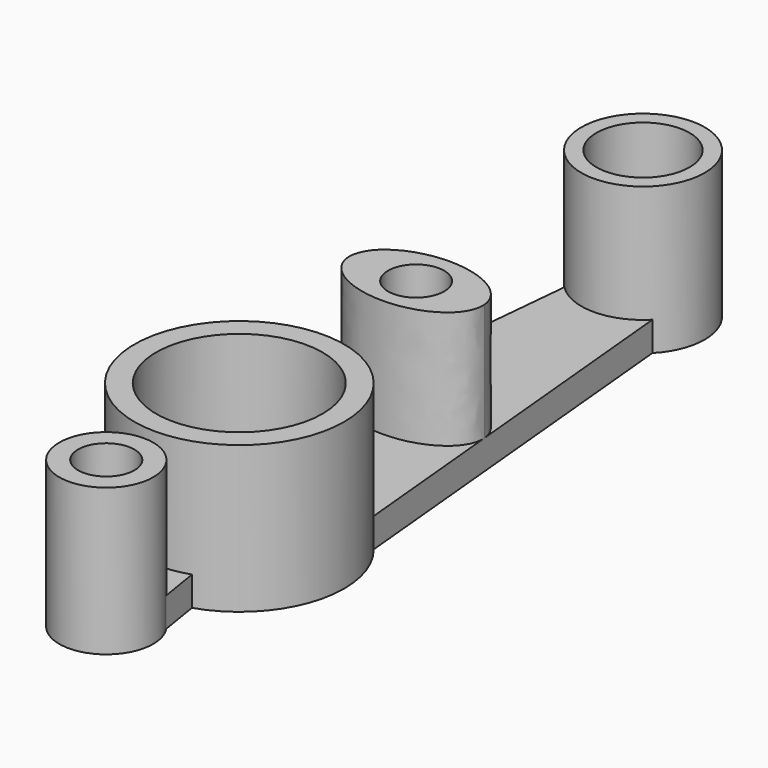
from build123d import *

# Parameters (mm, degrees)
F0_R     = 17.9979995513
F0_R_2   = 6.0747510363
F0_R_3   = 6.0949441069
F0_R_4   = 10.0773801314
F1_DEPTH = 6.35
F2_R     = 6.0949441069
F2_R_2   = 10.0773801314
F2_R_3   = 17.9979995513
F2_R_4   = 6.0747510363
F3_DEPTH = 25.4


with BuildPart() as f1:
    # F0 (on Top) → F1 (new body)
    with BuildSketch(Plane.XY):
        with BuildLine():
            ThreePointArc((7.0177937307, -21.5838061327), (18.3628187564, -13.3385532701), (22.6960374519, 0))
            ThreePointArc((22.6960374519, 0), (21.3913979495, 7.5840760668), (17.6274689928, 14.2962391183))
            ThreePointArc((17.6274689928, 14.2962391183), (0, 22.6960374519), (-17.6274689928, 14.2962391183))
            ThreePointArc((-17.6274689928, 14.2962391183), (-21.7644585386, -6.4357175621), (-7.0177937307, -21.5838061327))
            ThreePointArc((-7.0177937307, -21.5838061327), (0, -22.6960374519), (7.0177937307, -21.5838061327))
        make_face()
        Circle(F0_R, mode=Mode.SUBTRACT)
        with BuildLine():
            ThreePointArc((-17.6274689928, 14.2962391183), (0, 22.6960374519), (17.6274689928, 14.2962391183))
            Line((17.6274689928, 14.2962391183), (14.3902904912, 48.4228048638))
            add(Edge.make_bspline(
                [(14.4202992754, 47.7894358337), (14.4202992754, 48.1064502038), (14.3902904912, 48.4228048638)],
                knots=[0, 0, 0, 0.0645249095, 0.0645249095, 0.0645249095], degree=2, weights=[1, 0.9994796121, 1]))
            add(Edge.make_bspline(
                [(-14.3902904941, 48.4228048331), (-15.3506063284, 38.2990889748), (-0.4651535265, 37.9718487335), (14.4202992754, 37.6446084922), (14.4202992754, 47.7894358337)],
                knots=[3.0770677473, 3.0770677473, 3.0770677473, 4.6801265272, 4.6801265272, 6.2831853072, 6.2831853072, 6.2831853072], degree=2, weights=[1, 0.6956087777, 1, 0.6956087777, 1]))
            Line((-14.3902904941, 48.4228048331), (-17.6274689928, 14.2962391183))
        make_face()
        with BuildLine():
            Line((8.4153248479, -30.2734252867), (7.0177937307, -21.5838061327))
            ThreePointArc((7.0177937307, -21.5838061327), (0, -22.6960374519), (-7.0177937307, -21.5838061327))
            Line((-7.0177937307, -21.5838061327), (-8.4153248479, -30.2734252867))
            ThreePointArc((-8.4153248479, -30.2734252867), (0, -25.8088480655), (8.4153248479, -30.2734252867))
        make_face()
        with BuildLine():
            add(Edge.make_bspline(
                [(14.4202992754, 47.7894358337), (14.4202992754, 48.1064502038), (14.3902904912, 48.4228048638)],
                knots=[0, 0, 0, 0.0645249095, 0.0645249095, 0.0645249095], degree=2, weights=[1, 0.9994796121, 1]))
            add(Edge.make_bspline(
                [(14.3902904912, 48.4228048638), (13.5186086534, 57.6121345609), (-2.26e-08, 57.6121345465), (-13.5186086986, 57.612134532), (-14.3902904941, 48.4228048331)],
                knots=[0.0645249095, 0.0645249095, 0.0645249095, 1.5707963284, 1.5707963284, 3.0770677473, 3.0770677473, 3.0770677473], degree=2, weights=[1, 0.7295478541, 1, 0.7295478541, 1]))
            add(Edge.make_bspline(
                [(-14.3902904941, 48.4228048331), (-15.3506063284, 38.2990889748), (-0.4651535265, 37.9718487335), (14.4202992754, 37.6446084922), (14.4202992754, 47.7894358337)],
                knots=[3.0770677473, 3.0770677473, 3.0770677473, 4.6801265272, 4.6801265272, 6.2831853072, 6.2831853072, 6.2831853072], degree=2, weights=[1, 0.6956087777, 1, 0.6956087777, 1]))
        make_face()
        with Locations((0, 47.7894358337)):
            Circle(F0_R_2, mode=Mode.SUBTRACT)
        with BuildLine():
            add(Edge.make_bspline(
                [(14.3902904912, 48.4228048638), (13.5186086534, 57.6121345609), (-2.26e-08, 57.6121345465), (-13.5186086986, 57.612134532), (-14.3902904941, 48.4228048331)],
                knots=[0.0645249095, 0.0645249095, 0.0645249095, 1.5707963284, 1.5707963284, 3.0770677473, 3.0770677473, 3.0770677473], degree=2, weights=[1, 0.7295478541, 1, 0.7295478541, 1]))
            Line((14.3902904912, 48.4228048638), (9.5190301139, 99.7759778344))
            ThreePointArc((9.5190301139, 99.7759778344), (0, 95.7856198547), (-9.5190301139, 99.7759778344))
            Line((-9.5190301139, 99.7759778344), (-14.3902904941, 48.4228048331))
        make_face()
        with BuildLine():
            ThreePointArc((10.1633522686, -35.9722003341), (9.7165230463, -32.9917793527), (8.4153248479, -30.2734252867))
            ThreePointArc((8.4153248479, -30.2734252867), (0, -25.8088480655), (-8.4153248479, -30.2734252867))
            ThreePointArc((-8.4153248479, -30.2734252867), (-2.9804209813, -45.6887233804), (10.1633522686, -35.9722003341))
        make_face()
        with Locations((0, -35.9722003341)):
            Circle(F0_R_3, mode=Mode.SUBTRACT)
        with BuildLine():
            ThreePointArc((-9.5190301139, 99.7759778344), (0, 95.7856198547), (9.5190301139, 99.7759778344))
            ThreePointArc((9.5190301139, 99.7759778344), (12.3544882111, 104.0786259717), (13.3490393164, 109.1346591711))
            ThreePointArc((13.3490393164, 109.1346591711), (-5.0560331994, 121.4891473822), (-9.5190301139, 99.7759778344))
        make_face()
        with Locations((0, 109.1346591711)):
            Circle(F0_R_4, mode=Mode.SUBTRACT)
    extrude(amount=F1_DEPTH)

    # F2 (on face) → F3 (join)
    with BuildSketch(Plane.XY.offset(6.35)):
        with BuildLine():
            ThreePointArc((10.1633522686, -35.9722003341), (9.7165230463, -32.9917793527), (8.4153248479, -30.2734252867))
            ThreePointArc((8.4153248479, -30.2734252867), (0, -25.8088480655), (-8.4153248479, -30.2734252867))
            ThreePointArc((-8.4153248479, -30.2734252867), (-2.9804209813, -45.6887233804), (10.1633522686, -35.9722003341))
        make_face()
        with Locations((0, -35.9722003341)):
            Circle(F2_R, mode=Mode.SUBTRACT)
        with BuildLine():
            ThreePointArc((-9.5190301139, 99.7759778344), (0, 95.7856198547), (9.5190301139, 99.7759778344))
            ThreePointArc((9.5190301139, 99.7759778344), (12.3544882111, 104.0786259717), (13.3490393164, 109.1346591711))
            ThreePointArc((13.3490393164, 109.1346591711), (-5.0560331994, 121.4891473822), (-9.5190301139, 99.7759778344))
        make_face()
        with Locations((0, 109.1346591711)):
            Circle(F2_R_2, mode=Mode.SUBTRACT)
        with BuildLine():
            ThreePointArc((7.0177937307, -21.5838061327), (18.3628187564, -13.3385532701), (22.6960374519, 0))
            ThreePointArc((22.6960374519, 0), (21.3913979495, 7.5840760668), (17.6274689928, 14.2962391183))
            ThreePointArc((17.6274689928, 14.2962391183), (0, 22.6960374519), (-17.6274689928, 14.2962391183))
            ThreePointArc((-17.6274689928, 14.2962391183), (-21.7644585386, -6.4357175621), (-7.0177937307, -21.5838061327))
            ThreePointArc((-7.0177937307, -21.5838061327), (0, -22.6960374519), (7.0177937307, -21.5838061327))
        make_face()
        Circle(F2_R_3, mode=Mode.SUBTRACT)
        with BuildLine():
            add(Edge.make_bspline(
                [(14.4242746669, 47.7894358337), (14.4242746669, 48.0645412422), (14.3982258415, 48.3391498372)],
                knots=[0, 0, 0, 0.0601073328, 0.0601073328, 0.0601073328], degree=2, weights=[1, 0.9995484226, 1]))
            add(Edge.make_bspline(
                [(14.3982258415, 48.3391498372), (13.5823203052, 56.9404848349), (1.244e-07, 56.9404849092), (-13.5823200565, 56.9404849835), (-14.3982258266, 48.3391499947)],
                knots=[0.0601073328, 0.0601073328, 0.0601073328, 1.5707963182, 1.5707963182, 3.0814853035, 3.0814853035, 3.0814853035], degree=2, weights=[1, 0.7280354231, 1, 0.7280354231, 1]))
            add(Edge.make_bspline(
                [(-14.3982258266, 48.3391499947), (-15.2911490833, 38.9258913417), (-0.4334372082, 38.6425191679), (14.4242746669, 38.3591469941), (14.4242746669, 47.7894358337)],
                knots=[3.0814853035, 3.0814853035, 3.0814853035, 4.6823353053, 4.6823353053, 6.2831853072, 6.2831853072, 6.2831853072], degree=2, weights=[1, 0.6964017694, 1, 0.6964017694, 1]))
        make_face()
        with Locations((0, 47.7894358337)):
            Circle(F2_R_4, mode=Mode.SUBTRACT)
    extrude(amount=F3_DEPTH)


solid = f1.part
